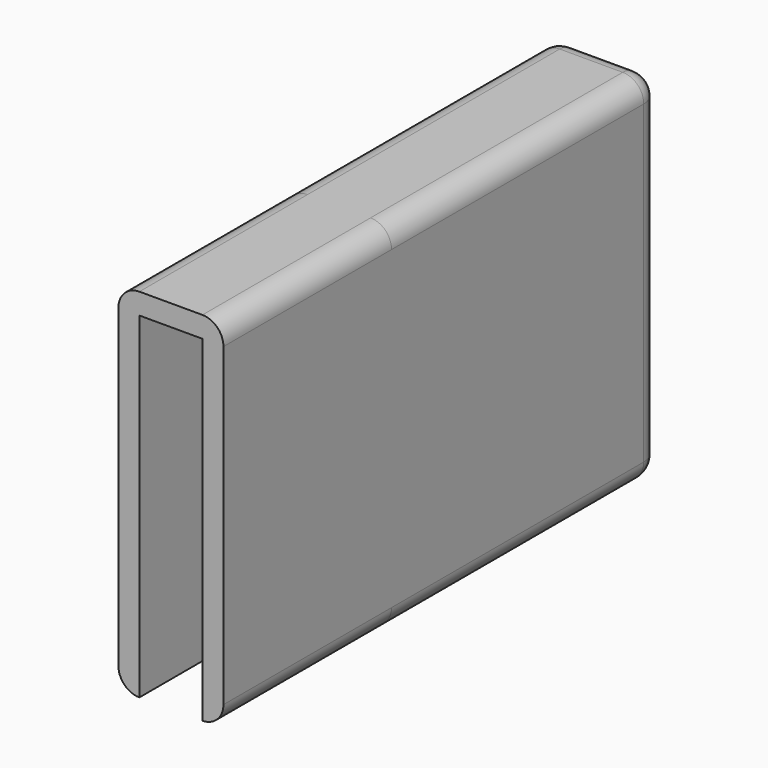
from build123d import *

# Parameters (mm, degrees)
SKETCH_W           = 3
SKETCH_H           = 15
PAD_DEPTH          = 15
THICKNESS_T        = 1
THICKNESS_FACE2_W  = 3
THICKNESS_FACE2_H  = 15
POCKET_DEPTH       = 5
POCKET_FACE4_W     = 15
POCKET_FACE4_H     = 3
POCKET001_DEPTH    = 5
POCKET001_FACE18_W = 3
POCKET001_FACE18_H = 1
POCKET002_DEPTH    = 5
PAD001_DEPTH       = 10


with BuildPart() as part:
    # Sketch → Pad (new body)
    with BuildSketch(Plane.XY):
        with Locations((1.5, 7.5)):
            Rectangle(SKETCH_W, SKETCH_H)
    extrude(amount=PAD_DEPTH)

    # Thickness
    thickness_openings = [part.faces().sort_by_distance(p)[0] for p in [
        (1.5, 0, 7.5),
    ]]
    offset(amount=THICKNESS_T, openings=thickness_openings)

    # Thickness Face2 → Pocket (cut)
    with BuildSketch(Plane(origin=(1.5, 15, 7.5), x_dir=(-1, 0, 0), z_dir=(0, -1, 0))):
        Rectangle(THICKNESS_FACE2_W, THICKNESS_FACE2_H)
    extrude(amount=-POCKET_DEPTH, mode=Mode.SUBTRACT)

    # Pocket Face4 → Pocket001 (cut)
    with BuildSketch(Plane(origin=(1.5, 7.5, 0), x_dir=(0, 1, 0), z_dir=(0, 0, 1))):
        Rectangle(POCKET_FACE4_W, POCKET_FACE4_H)
    extrude(amount=-POCKET001_DEPTH, mode=Mode.SUBTRACT)

    # Pocket001 Face18 → Pocket002 (cut)
    with BuildSketch(Plane(origin=(1.5, 15, -0.5), x_dir=(-1, 0, 0), z_dir=(0, -1, 0))):
        Rectangle(POCKET001_FACE18_W, POCKET001_FACE18_H)
    extrude(amount=-POCKET002_DEPTH, mode=Mode.SUBTRACT)

    # Pocket002 Face2 → Pad001 (add)
    with BuildSketch(Plane(origin=(1.5, 0, 8.164055), x_dir=(-1, 0, 0), z_dir=(0, -1, 0))):
        with BuildLine():
            Line((1.5, 8.164055), (1.5, -6.835945))
            Line((1.5, -6.835945), (-1.5, -6.835945))
            Line((-1.5, -6.835945), (-1.5, 8.164055))
            Line((-1.5, 8.164055), (-1.5, 9.164055))
            ThreePointArc((-1.5, 9.164055), (-2.207107, 8.871162), (-2.5, 8.164055))
            Line((-2.5, 8.164055), (-2.5, -6.835945))
            ThreePointArc((-2.5, -6.835945), (-2.207107, -7.543052), (-1.5, -7.835945))
            Line((-1.5, -7.835945), (1.5, -7.835945))
            ThreePointArc((1.5, -7.835945), (2.207107, -7.543052), (2.5, -6.835945))
            Line((2.5, -6.835945), (2.5, 8.164055))
            ThreePointArc((2.5, 8.164055), (2.207107, 8.871162), (1.5, 9.164055))
            Line((1.5, 9.164055), (1.5, 8.164055))
        make_face()
    extrude(amount=PAD001_DEPTH)


solid = part.part
